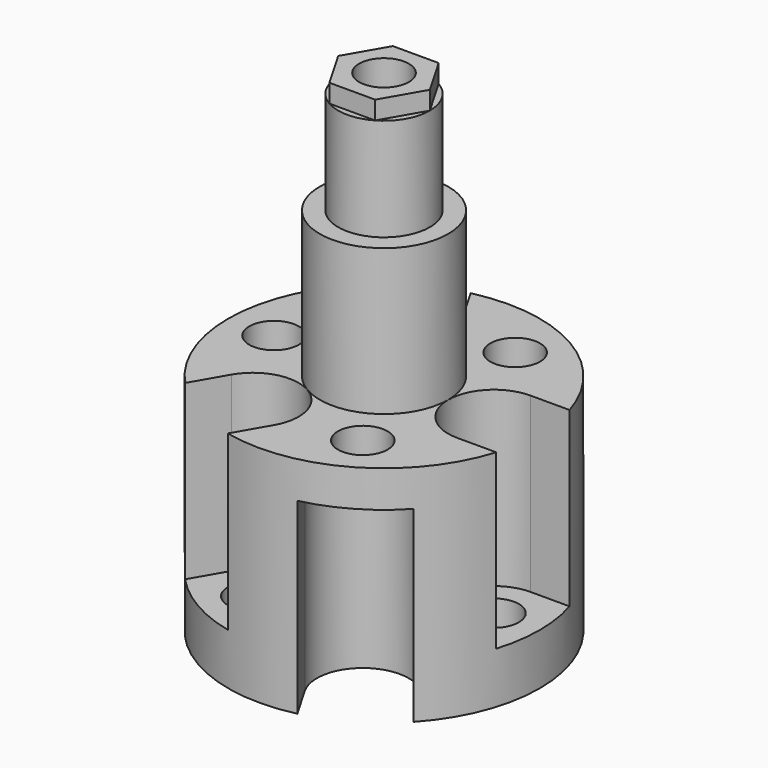
from build123d import *

# Parameters (mm, degrees)
F0_R      = 13.49375
F0_R_2    = 2.15265
F1_DEPTH  = 19.4183
F5_DEPTH  = 14.9733
F7_DEPTH  = 16.2433
F8_R      = 5.55625
F8_R_2    = 2.15265
F9_DEPTH  = 12.6492
F10_R     = 3.96875
F10_R_2   = 2.15265
F11_DEPTH = 8.89
F12_R     = 2.15265
F13_DEPTH = 1.5875


with BuildPart() as f1:
    # F0 (on Top) → F1 (new body)
    with BuildSketch(Plane.XY):
        Circle(F0_R)
        with Locations((-4.7625, -8.248892)):
            Circle(F0_R_2, mode=Mode.SUBTRACT)
        with Locations((4.7625, -8.248892)):
            Circle(F0_R_2, mode=Mode.SUBTRACT)
        with Locations((-9.525, 0)):
            Circle(F0_R_2, mode=Mode.SUBTRACT)
        with Locations((-4.7625, 8.248892)):
            Circle(F0_R_2, mode=Mode.SUBTRACT)
        Circle(F0_R_2, mode=Mode.SUBTRACT)
        with Locations((9.525, 0)):
            Circle(F0_R_2, mode=Mode.SUBTRACT)
        with Locations((4.7625, 8.248892)):
            Circle(F0_R_2, mode=Mode.SUBTRACT)
    extrude(amount=F1_DEPTH)

    # F4 (on face) → F5 (cut, through all)
    with BuildSketch(Plane.XY.offset(19.4183)):
        with BuildLine():
            Line((-3.309837, 13.670305), (-10.183913, 9.701555))
            Line((-10.183913, 9.701555), (-8.199538, 6.264517))
            ThreePointArc((-8.199538, 6.264517), (-2.778125, 4.811854), (-1.325462, 10.233267))
            Line((-1.325462, 10.233267), (-3.309837, 13.670305))
        make_face()
        with BuildLine():
            Line((13.49375, 3.96875), (9.525, 3.96875))
            ThreePointArc((9.525, 3.96875), (5.55625, 0), (9.525, -3.96875))
            Line((9.525, -3.96875), (13.49375, -3.96875))
            Line((13.49375, -3.96875), (13.49375, 3.96875))
        make_face()
        with BuildLine():
            Line((-8.199538, -6.264517), (-10.183913, -9.701555))
            Line((-10.183913, -9.701555), (-3.309837, -13.670305))
            Line((-3.309837, -13.670305), (-1.325462, -10.233267))
            ThreePointArc((-1.325462, -10.233267), (-2.778125, -4.811854), (-8.199538, -6.264517))
        make_face()
    extrude(amount=-F5_DEPTH, mode=Mode.SUBTRACT)

    # F6 (on face) → F7 (cut, through all)
    with BuildSketch(Plane(origin=(0, 0, 0), x_dir=(1, 0, 0), z_dir=(0, 0, -1))):
        with BuildLine():
            Line((1.325462, -10.233267), (3.309837, -13.670305))
            Line((3.309837, -13.670305), (10.183913, -9.701555))
            Line((10.183913, -9.701555), (8.199538, -6.264517))
            ThreePointArc((8.199538, -6.264517), (2.778125, -4.811854), (1.325462, -10.233267))
        make_face()
        with BuildLine():
            Line((10.183913, 9.701555), (3.309837, 13.670305))
            Line((3.309837, 13.670305), (1.325462, 10.233267))
            ThreePointArc((1.325462, 10.233267), (2.778125, 4.811854), (8.199538, 6.264517))
            Line((8.199538, 6.264517), (10.183913, 9.701555))
        make_face()
        with BuildLine():
            Line((-9.525, 3.96875), (-13.49375, 3.96875))
            Line((-13.49375, 3.96875), (-13.49375, -3.96875))
            Line((-13.49375, -3.96875), (-9.525, -3.96875))
            ThreePointArc((-9.525, -3.96875), (-5.55625, 0), (-9.525, 3.96875))
        make_face()
    extrude(amount=-F7_DEPTH, mode=Mode.SUBTRACT)

    # F8 (on face) → F9 (join)
    with BuildSketch(Plane.XY.offset(19.4183)):
        Circle(F8_R)
        Circle(F8_R_2, mode=Mode.SUBTRACT)
    extrude(amount=F9_DEPTH)

    # F10 (on face) → F11 (join)
    with BuildSketch(Plane.XY.offset(32.0675)):
        Circle(F10_R)
        Circle(F10_R_2, mode=Mode.SUBTRACT)
    extrude(amount=F11_DEPTH)

    # F12 (on face) → F13 (join)
    with BuildSketch(Plane.XY.offset(40.9575)):
        Polygon((1.984375, 3.437038), (-1.984375, 3.437038), (-3.96875, 0), (-1.984375, -3.437038), (1.984375, -3.437038), (3.96875, 0), align=None)
        Circle(F12_R, mode=Mode.SUBTRACT)
    extrude(amount=F13_DEPTH)


solid = f1.part
